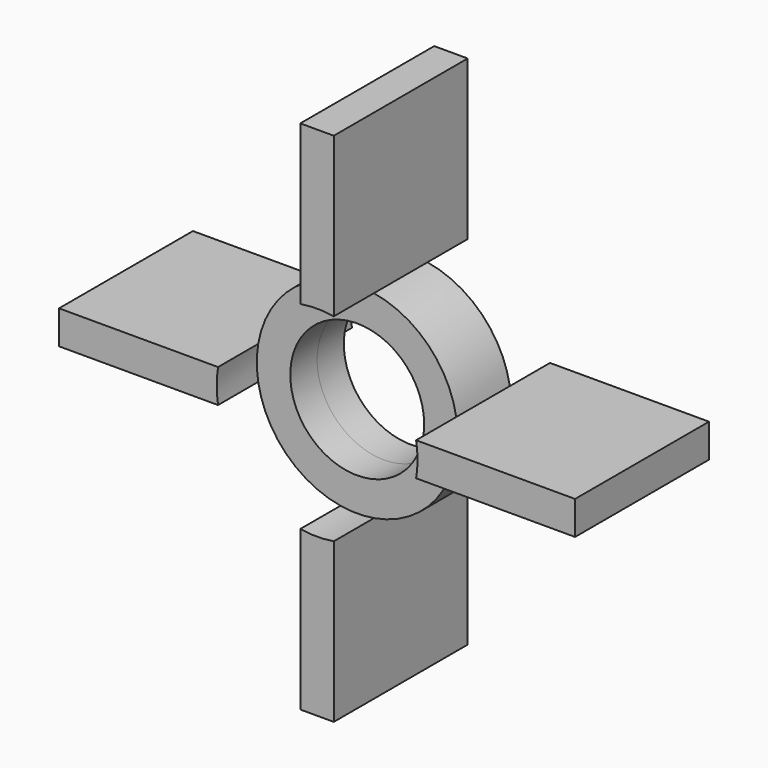
from build123d import *

# Parameters (mm, degrees)
F1_DEPTH = 2.5
F0_R     = 2
F2_DEPTH = 1


with BuildPart() as f1:
    # F0 (on Front) → F1 (new body, symmetric)
    with BuildSketch(Plane.XZ):
        with BuildLine():
            ThreePointArc((-0.5, 2.9580398915), (0, 3), (0.5, 2.9580398915))
            Line((0.5, 2.9580398915), (0.5, 7.7080398915))
            Line((0.5, 7.7080398915), (-0.5, 7.7080398915))
            Line((-0.5, 7.7080398915), (-0.5, 2.9580398915))
        make_face()
    extrude(amount=F1_DEPTH, both=True)



with BuildPart() as f1b:
    # F0 (on Front) → F1, piece 2 (new body, symmetric)
    with BuildSketch(Plane.XZ):
        with BuildLine():
            ThreePointArc((-2.9580398915, -0.5), (-3, 0), (-2.9580398915, 0.5))
            Line((-2.9580398915, 0.5), (-7.7080398915, 0.5))
            Line((-7.7080398915, 0.5), (-7.7080398915, -0.5))
            Line((-7.7080398915, -0.5), (-2.9580398915, -0.5))
        make_face()
    extrude(amount=F1_DEPTH, both=True)


with BuildPart() as f1c:
    # F0 (on Front) → F1, piece 3 (new body, symmetric)
    with BuildSketch(Plane.XZ):
        with BuildLine():
            Line((0.5, -7.7080398915), (0.5, -2.9580398915))
            ThreePointArc((0.5, -2.9580398915), (0, -3), (-0.5, -2.9580398915))
            Line((-0.5, -2.9580398915), (-0.5, -7.7080398915))
            Line((-0.5, -7.7080398915), (0.5, -7.7080398915))
        make_face()
    extrude(amount=F1_DEPTH, both=True)


with BuildPart() as f1d:
    # F0 (on Front) → F1, piece 4 (new body, symmetric)
    with BuildSketch(Plane.XZ):
        with BuildLine():
            ThreePointArc((2.9580398915, 0.5), (2.9894915684, 0.2508787808), (3, 0))
            ThreePointArc((3, 0), (2.9894915684, -0.2508787808), (2.9580398915, -0.5))
            Line((2.9580398915, -0.5), (7.7080398915, -0.5))
            Line((7.7080398915, -0.5), (7.7080398915, 0.5))
            Line((7.7080398915, 0.5), (2.9580398915, 0.5))
        make_face()
    extrude(amount=F1_DEPTH, both=True)


with BuildPart() as f1_1:
    add(f1.part)

    add(f1b.part)  # F2 merges F1b

    add(f1c.part)  # F2 merges F1c

    add(f1d.part)  # F2 merges F1d
    # F0 (on Front) → F2 (join, symmetric)
    with BuildSketch(Plane.XZ):
        with BuildLine():
            ThreePointArc((2.9580398915, -0.5), (2.9894915684, -0.2508787808), (3, 0))
            ThreePointArc((3, 0), (2.9894915684, 0.2508787808), (2.9580398915, 0.5))
            ThreePointArc((2.9580398915, 0.5), (2.1213203436, 2.1213203436), (0.5, 2.9580398915))
            ThreePointArc((0.5, 2.9580398915), (0, 3), (-0.5, 2.9580398915))
            ThreePointArc((-0.5, 2.9580398915), (-2.1213203436, 2.1213203436), (-2.9580398915, 0.5))
            ThreePointArc((-2.9580398915, 0.5), (-3, 0), (-2.9580398915, -0.5))
            ThreePointArc((-2.9580398915, -0.5), (-2.1213203436, -2.1213203436), (-0.5, -2.9580398915))
            ThreePointArc((-0.5, -2.9580398915), (0, -3), (0.5, -2.9580398915))
            ThreePointArc((0.5, -2.9580398915), (2.1213203436, -2.1213203436), (2.9580398915, -0.5))
        make_face()
        Circle(F0_R, mode=Mode.SUBTRACT)
    extrude(amount=F2_DEPTH, both=True)


solid = f1_1.part
